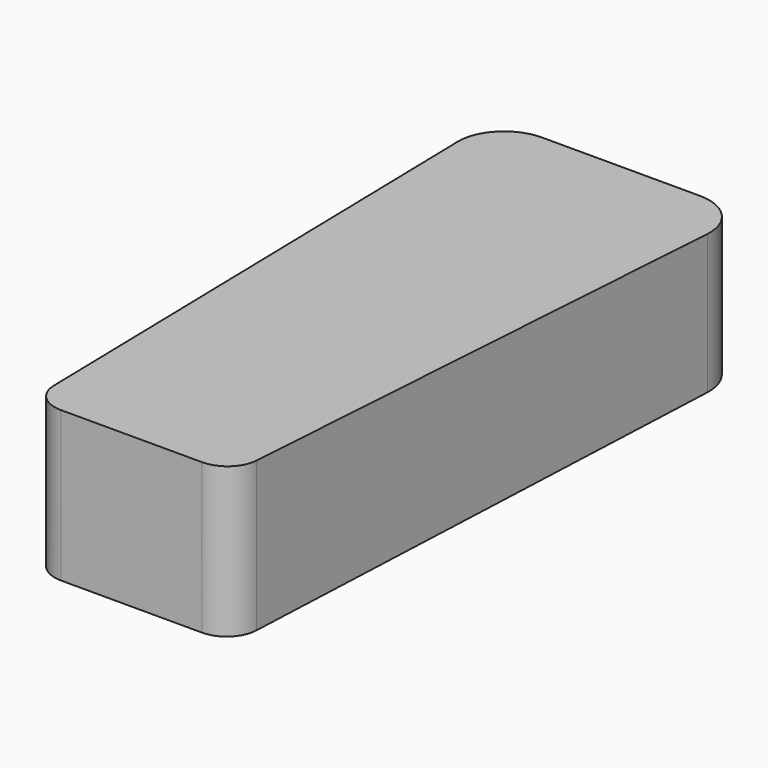
from build123d import *

# Parameters (mm, degrees)
F1_DEPTH = 61.8998
F3_DEPTH = 92.806324
F4_DEPTH = 25.4


with BuildPart() as f1:
    # F0 (on Top) → F1 (new body)
    with BuildSketch(Plane.XY):
        with BuildLine():
            Line((-10.236888, 232.51189), (-0.534554, 12.141394))
            ThreePointArc((-0.534554, 12.141394), (3.372617, 3.524372), (12.153155, 0))
            Line((12.153155, 0), (70.396845, 0))
            ThreePointArc((70.396845, 0), (79.177383, 3.524372), (83.084554, 12.141394))
            Line((83.084554, 12.141394), (92.786888, 232.51189))
            ThreePointArc((92.786888, 232.51189), (87.518766, 246.520607), (73.755324, 252.3998))
            Line((73.755324, 252.3998), (8.794676, 252.3998))
            ThreePointArc((8.794676, 252.3998), (-4.968766, 246.520607), (-10.236888, 232.51189))
        make_face()
    extrude(amount=F1_DEPTH)

    # F2 (on Right) → F3 (cut, through all)
    with BuildSketch(Plane.YZ):
        Polygon((0, 61.8998), (252.3998, 57.15), (252.3998, 61.8998), align=None)
    extrude(amount=F3_DEPTH, mode=Mode.SUBTRACT)

    # F2 (on Right) → F4 (cut)
    with BuildSketch(Plane.YZ):
        Polygon((0, 61.8998), (252.3998, 57.15), (252.3998, 61.8998), align=None)
    extrude(amount=-F4_DEPTH, mode=Mode.SUBTRACT)


solid = f1.part
